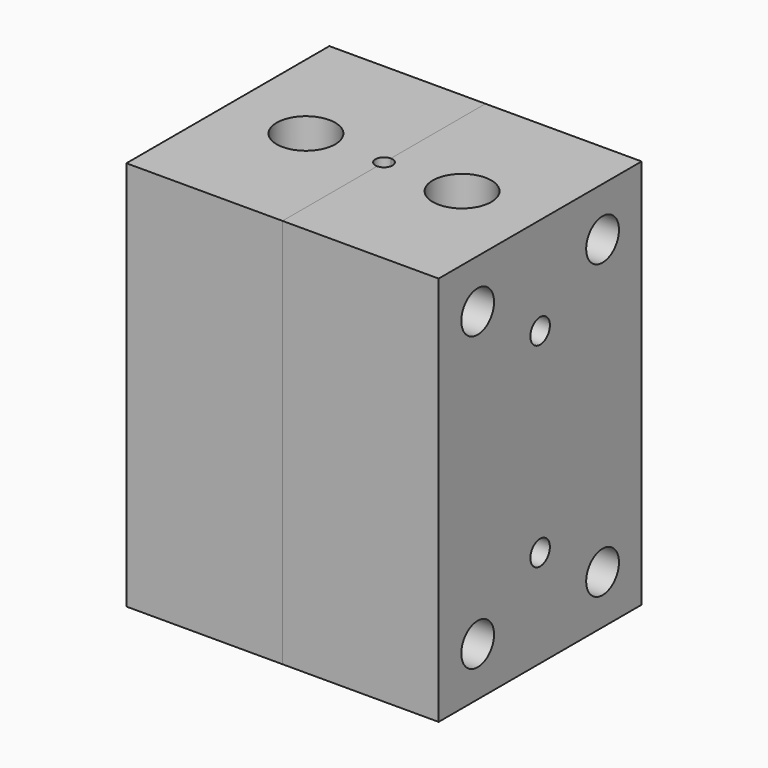
from build123d import *

# Parameters (mm, degrees)
F0_R     = 3
F1_DEPTH = 40
F3_D     = 4.2
F3_DEPTH = 10
F3_TIP   = 1.2618073
F4_D     = 2.5
F4_DEPTH = 10
F4_TIP   = 0.7510757738


with BuildPart() as f1:
    # F0 (on Top) → F1 (new body)
    with BuildSketch(Plane.XY):
        with BuildLine():
            Line((0, 13), (-16, 13))
            Line((-16, 13), (-16, -13))
            Line((-16, -13), (0, -13))
            Line((0, -13), (0, -0.875))
            ThreePointArc((0, -0.875), (-0.875, 0), (0, 0.875))
            Line((0, 0.875), (0, 13))
        make_face()
        with Locations((-8, 0)):
            Circle(F0_R, mode=Mode.SUBTRACT)
    extrude(amount=F1_DEPTH)

    # F3
    with Locations(Plane(origin=(-16, 0, 0), x_dir=(0, -1, 0), z_dir=(-1, 0, 0))):
        with Locations((-8, 35), (8, 35), (8, 5), (-8, 5)):
            Hole(F3_D / 2, depth=F3_DEPTH)
            with Locations((0, 0, -(F3_DEPTH + F3_TIP / 2))):  # 118° drill point
                Cone(0, F3_D / 2, F3_TIP, mode=Mode.SUBTRACT)

    # F4
    with Locations(Plane(origin=(-16, 0, 0), x_dir=(0, -1, 0), z_dir=(-1, 0, 0))):
        with Locations((0, 30), (0, 10)):
            Hole(F4_D / 2, depth=F4_DEPTH)
            with Locations((0, 0, -(F4_DEPTH + F4_TIP / 2))):  # 118° drill point
                Cone(0, F4_D / 2, F4_TIP, mode=Mode.SUBTRACT)


with BuildPart() as f5_1:
    # F5: instance of F1
    add(f1.part.mirror(Plane.YZ))


solid = Compound([f1.part, f5_1.part])
